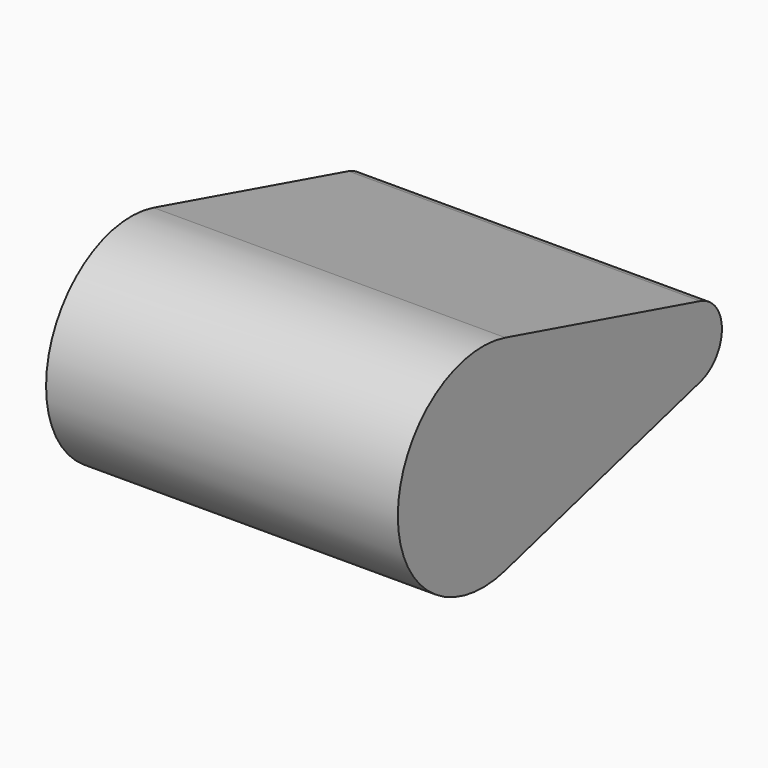
from build123d import *

# Parameters (mm, degrees)
F1_DEPTH = 76.2


with BuildPart() as f1:
    # F0 (on Right) → F1 (new body)
    with BuildSketch(Plane.YZ):
        with BuildLine():
            ThreePointArc((64.744801, 0), (63.108078, 4.846023), (58.868258, 7.70727))
            ThreePointArc((58.868258, 7.70727), (48.759932, 0), (58.868258, -7.70727))
            ThreePointArc((58.868258, -7.70727), (63.108078, -4.846023), (64.744801, 0))
        make_face()
        with BuildLine():
            ThreePointArc((6.093416, -22.195651), (18.303388, -13.955738), (23.016877, 0))
            ThreePointArc((23.016877, 0), (18.303388, 13.955738), (6.093416, 22.195651))
            ThreePointArc((6.093416, 22.195651), (-23.016877, 0), (6.093416, -22.195651))
        make_face()
        with BuildLine():
            ThreePointArc((6.093416, 22.195651), (18.303388, 13.955738), (23.016877, 0))
            ThreePointArc((23.016877, 0), (18.303388, -13.955738), (6.093416, -22.195651))
            Line((6.093416, -22.195651), (58.868258, -7.70727))
            ThreePointArc((58.868258, -7.70727), (48.759932, 0), (58.868258, 7.70727))
            Line((58.868258, 7.70727), (6.093416, 22.195651))
        make_face()
    extrude(amount=F1_DEPTH)


solid = f1.part
